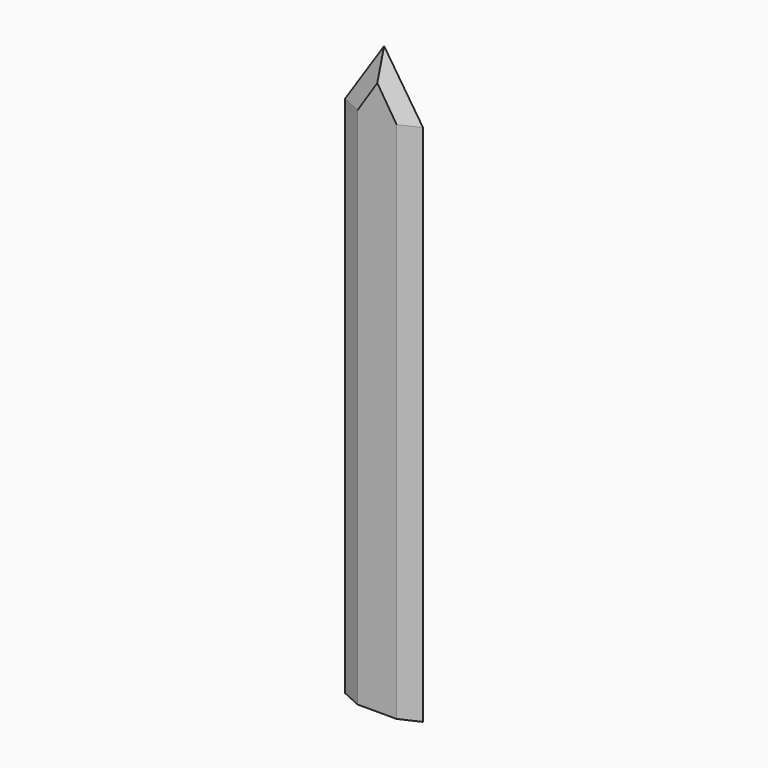
from build123d import *

# Parameters (mm, degrees)
F0_W      = 79.5655027032
F0_H      = 36.2267494202
F1_DEPTH  = 12.7
F2_DEPTH  = 12.7
F4_DEPTH  = 508
F7_DEPTH  = 76.2
F8_SIZE2  = 59.4614
F8_SIZE   = 15.9326341108
F9_DEPTH  = 25.4
F10_DEPTH = 25.4
F12_DEPTH = 990.6


with BuildPart() as f1:
    # F0 (on Top) → F1 (new body)
    with BuildSketch(Plane.XY):
        with Locations((-0.5556233227, -0.4444997758)):
            Rectangle(F0_W, F0_H)
    extrude(amount=F1_DEPTH)

    # F2 (add): a face of the model
    f2_faces = [f1.faces().sort_by_distance(p)[0] for p in [
        (-0.5556233227, -0.4444997758, 0),
    ]]
    extrude(f2_faces, amount=F2_DEPTH)

    # F3 (on face) → F4 (join)
    with BuildSketch(Plane.XY.offset(12.7)):
        Polygon((-39.5987667143, 0), (0, -17.9184600711), (38.5859385133, 0), (0, 16.9973578304), align=None)
    extrude(amount=F4_DEPTH)

    # F5 (on face) → F7 (join)
    with BuildSketch(Plane.XY.offset(520.7)):
        Polygon((0, 16.9973578304), (-39.5987667143, 0), (0, -17.9184600711), (38.5859385133, 0), align=None)
    extrude(amount=F7_DEPTH)

    # F8
    f8_edges = [f1.edges().sort_by_distance(p)[0] for p in [
        (-19.799383, 8.498679, 596.9),
        (-19.799383, -8.95923, 596.9),
        (19.292969, -8.95923, 596.9),
        (19.292969, 8.498679, 596.9),
    ]]
    f8_side = f1.faces().sort_by_distance((-0.337609, -0.307034, 596.9))[0]
    chamfer(f8_edges, length=F8_SIZE, length2=F8_SIZE2, reference=f8_side)

    # F9 (cut): a face of the model
    f9_faces = [f1.faces().sort_by_distance(p)[0] for p in [
        (-0.5556233227, 17.6688749343, 0),
    ]]
    extrude(f9_faces, amount=-F9_DEPTH, mode=Mode.SUBTRACT)

    # F10 (cut): a face of the model
    f10_faces = [f1.faces().sort_by_distance(p)[0] for p in [
        (-0.5556233227, -18.5578744859, 0),
    ]]
    extrude(f10_faces, amount=-F10_DEPTH, mode=Mode.SUBTRACT)

    # F11 (on face) → F12 (cut)
    with BuildSketch(Plane(origin=(0, 0, 12.7), x_dir=(1, 0, 0), z_dir=(0, 0, -1))):
        Polygon((19.2929692566, -8.4986789152), (-19.0062443799, -8.8391255534), (0, -16.9973578304), align=None)
        Polygon((0, 17.9184600711), (-19.7993833572, 8.9592300355), (19.2929692566, 8.9592300355), align=None)
    extrude(amount=-F12_DEPTH, mode=Mode.SUBTRACT)


solid = f1.part
